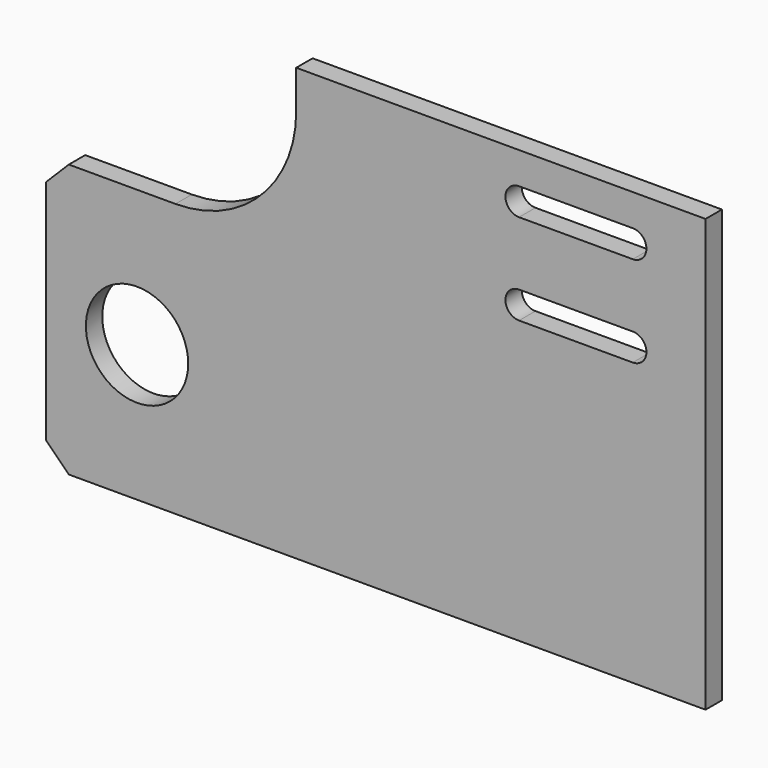
from build123d import *

# Parameters (mm, degrees)
F1_DEPTH = 9
F2_R     = 22.5
F3_DEPTH = 9.001
F4_R     = 53.1126983722
F5_SIZE  = 10


with BuildPart() as f1:
    # F0 (on Front) → F1 (new body)
    with BuildSketch(Plane.XZ):
        Polygon((-290, 0), (0, 0), (0, 190), (-180, 190), (-180, 120), (-290, 120), align=None)
    extrude(amount=F1_DEPTH)

    # F2 (on Front) → F3 (cut, through all)
    with BuildSketch(Plane.XZ):
        with BuildLine():
            Line((-32, 176), (-82, 176))
            ThreePointArc((-82, 176), (-88, 170), (-82, 164))
            Line((-82, 164), (-32, 164))
            ThreePointArc((-32, 164), (-26, 170), (-32, 176))
        make_face()
        with BuildLine():
            Line((-32, 136), (-82, 136))
            ThreePointArc((-82, 136), (-88, 130), (-82, 124))
            Line((-82, 124), (-32, 124))
            ThreePointArc((-32, 124), (-26, 130), (-32, 136))
        make_face()
        with Locations((-250, 60)):
            Circle(F2_R)
    extrude(amount=F3_DEPTH, mode=Mode.SUBTRACT)

    # F4
    f4_edges = [f1.edges().sort_by_distance(p)[0] for p in [
        (-180, -4.5, 120),
    ]]
    fillet(f4_edges, radius=F4_R)

    # F5
    f5_edges = [f1.edges().sort_by_distance(p)[0] for p in [
        (-290, -4.5, 0),
        (-290, -4.5, 120),
    ]]
    chamfer(f5_edges, length=F5_SIZE)


solid = f1.part
